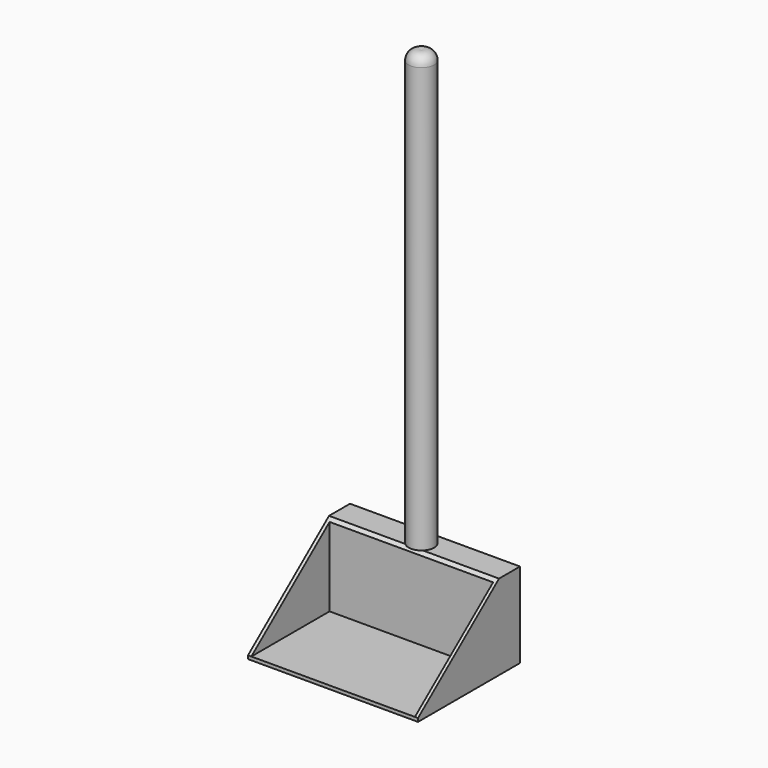
from build123d import *

# Parameters (mm, degrees)
F2_W          = 254
F2_H          = 127
F3_DEPTH      = 165.1
F3_DEPTH_BACK = 25.4
F5_DEPTH      = 386.08
F6_W          = 244.38259
F6_H          = 119.596362
F7_DEPTH      = 146.05


with BuildPart() as f1:
    # F0 (on Front) → F1 (revolve)
    with BuildSketch(Plane.XZ):
        with BuildLine():
            Line((-19.05, 762), (-19.05, 0))
            Line((-19.05, 0), (0, 0))
            Line((0, 0), (0, 762))
            Line((0, 762), (0, 775.64925))
            ThreePointArc((0, 775.64925), (-13.030766, 773.717556), (-19.05, 762))
        make_face()
    revolve(axis=Axis((0, 0, 381), (0, 0, -1)))

    # F2 (on Front) → F3 (join, two sides)
    with BuildSketch(Plane.XZ) as f3_sk:
        with Locations((0, 63.5)):
            Rectangle(F2_W, F2_H)
    extrude(amount=F3_DEPTH)
    extrude(f3_sk.sketch, amount=-F3_DEPTH_BACK)

    # F4 (on face) → F5 (cut)
    with BuildSketch(Plane(origin=(-127, 0, 0), x_dir=(0, -1, 0), z_dir=(-1, 0, 0))):
        Polygon((165.1, 127), (13.759854, 127), (165.1, 5.08), align=None)
    extrude(amount=-F5_DEPTH, mode=Mode.SUBTRACT)

    # F6 (on face) → F7 (cut)
    with BuildSketch(Plane.XZ.offset(165.1)):
        with Locations((0.205591, 64.878181)):
            Rectangle(F6_W, F6_H)
    extrude(amount=-F7_DEPTH, mode=Mode.SUBTRACT)


solid = f1.part
